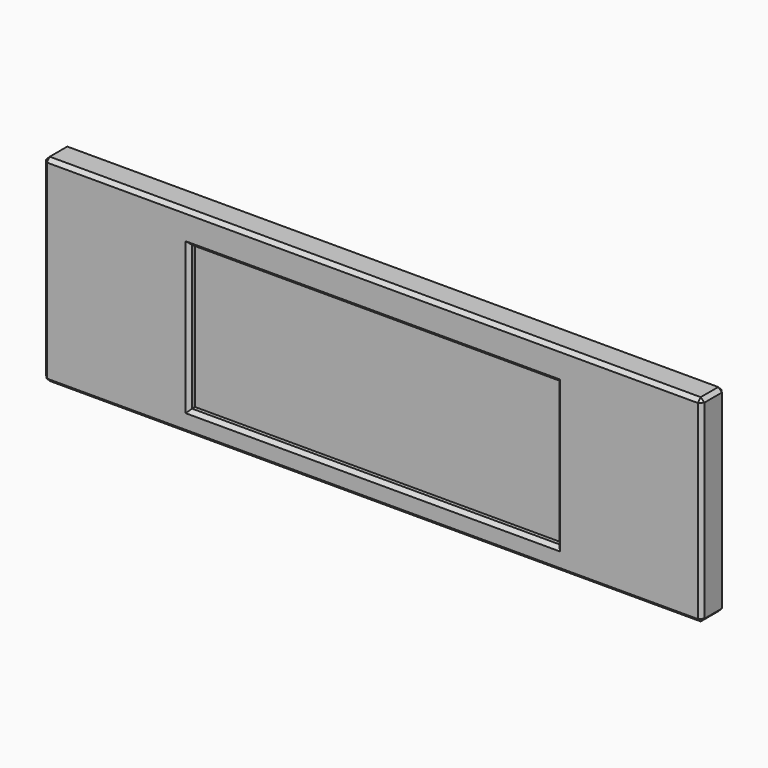
from build123d import *

# Parameters (mm, degrees)
F0_W     = 900
F0_H     = 270
F0_W_2   = 502
F0_H_2   = 197
F1_DEPTH = 40
F2_DEPTH = 30
F3_SIZE  = 5


with BuildPart() as f1:
    # F0 (on Front) → F1 (new body)
    with BuildSketch(Plane.XZ):
        with Locations((-14.222194, -51.038729)):
            Rectangle(F0_W, F0_H)
        with Locations((-13.586061, -57.538729)):
            Rectangle(F0_W_2, F0_H_2, mode=Mode.SUBTRACT)
    extrude(amount=F1_DEPTH)

    # F0 (on Front) → F2 (join)
    with BuildSketch(Plane.XZ):
        with Locations((-13.586061, -57.538729)):
            Rectangle(F0_W_2, F0_H_2)
    extrude(amount=F2_DEPTH)

    # F3
    f3_edges = [f1.edges().sort_by_distance(p)[0] for p in [
        (435.777806, -40, -51.038729),
        (-14.222194, -40, 83.961271),
        (-464.222194, -40, -51.038729),
        (-14.222194, -40, -186.038729),
        (-264.586061, -40, -57.538729),
        (-13.586061, -40, 40.961271),
        (237.413939, -40, -57.538729),
        (-13.586061, -40, -156.038729),
        (-464.222194, -20, 83.961271),
        (-464.222194, -20, -186.038729),
        (-464.222194, 0, -51.038729),
        (435.777806, -20, -186.038729),
        (435.777806, -20, 83.961271),
        (435.777806, 0, -51.038729),
        (-14.222194, 0, -186.038729),
        (-14.222194, 0, 83.961271),
    ]]
    chamfer(f3_edges, length=F3_SIZE)


solid = f1.part
